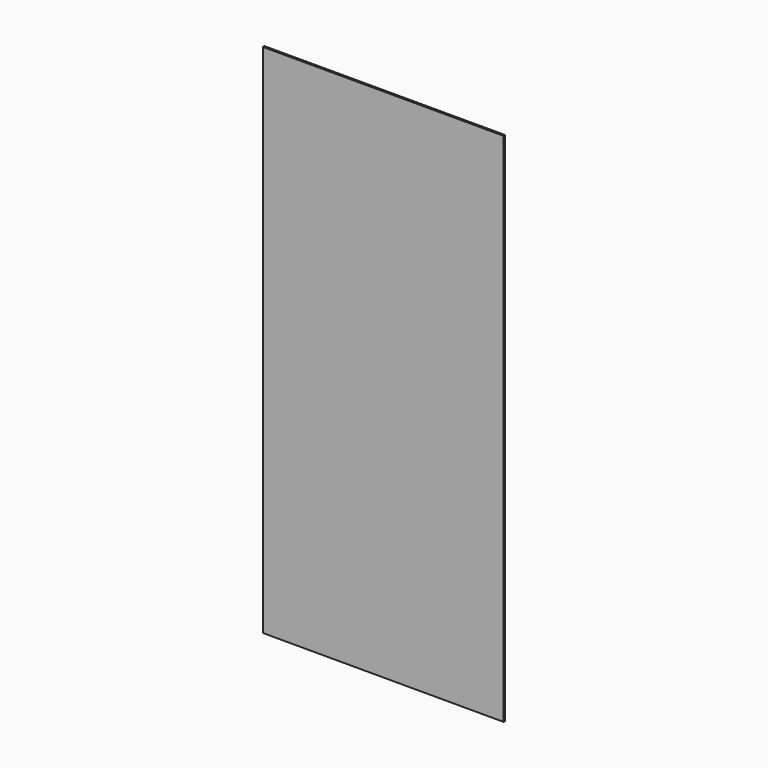
from build123d import *

# Parameters (mm, degrees)
F0_W      = 64.7
F0_H      = 138.7
F1_DEPTH  = 2
F1_FACE_W = 64.7
F1_FACE_H = 138.7
F2_DEPTH  = 1.5


with BuildPart() as f1:
    # F0 (on Front) → F1 (new body)
    with BuildSketch(Plane.XZ):
        Rectangle(F0_W, F0_H)
    extrude(amount=F1_DEPTH)

    # F1_face (on face) → F2 (cut)
    with BuildSketch(Plane(origin=(0, 0, 0), x_dir=(1, 0, 0), z_dir=(0, 1, 0))):
        Rectangle(F1_FACE_W, F1_FACE_H)
    extrude(amount=-F2_DEPTH, mode=Mode.SUBTRACT)


solid = f1.part
